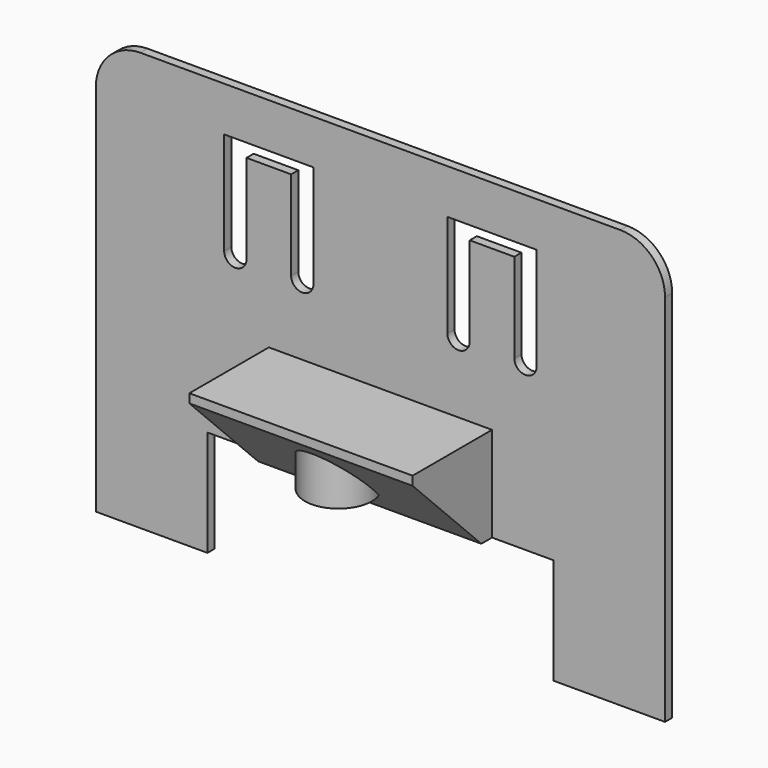
from build123d import *

# Parameters (mm, degrees)
PAD_DEPTH    = 0.8
PAD001_DEPTH = 10
SKETCH003_R  = 3
PAD002_DEPTH = 6
POCKET_DEPTH = 5


with BuildPart() as part:
    # Sketch → Pad (new body)
    with BuildSketch(Plane.XZ):
        with BuildLine():
            Line((-25.5, 14.5), (-25.5, 48))
            ThreePointArc((-21.5, 52), (-24.328427, 50.828427), (-25.5, 48))
            Line((-21.5, 52), (21.5, 52))
            ThreePointArc((25.5, 48), (24.328427, 50.828427), (21.5, 52))
            Line((25.5, 48), (25.5, 14.5))
            Line((25.5, 14.5), (15.5, 14.5))
            Line((15.5, 14.5), (15.5, 24))
            Line((15.5, 24), (-15.5, 24))
            Line((-15.5, 24), (-15.5, 14.5))
            Line((-15.5, 14.5), (-25.5, 14.5))
        make_face()
    extrude(amount=PAD_DEPTH)

    # Sketch001 → Pad001 (join, symmetric)
    with BuildSketch(Plane.YZ):
        Polygon((-2, 24), (-9.7, 31.7), (-9.7, 32.5), (0, 32.5), (0, 24), align=None)
    extrude(amount=PAD001_DEPTH, both=True)

    # Sketch003 (on Face12 of Pad001) → Pad002 (join)
    with BuildSketch(Plane(origin=(0, 0, 32.5), x_dir=(-1, 0, 0), z_dir=(0, 0, 1))):
        with Locations((0, 5.5)):
            Circle(SKETCH003_R)
    extrude(amount=-PAD002_DEPTH)

    # Sketch004 (on Face5 of Pad002) → Pocket (cut)
    with BuildSketch(Plane.XZ.offset(0.8)):
        with BuildLine():
            Line((-12, 38.8), (-12, 46.8))
            Line((-12, 46.8), (-8, 46.8))
            Line((-8, 46.8), (-8, 38.8))
            ThreePointArc((-8, 38.8), (-7, 37.8), (-6, 38.8))
            Line((-6, 38.8), (-6, 48))
            Line((-6, 48), (-14, 48))
            Line((-14, 48), (-14, 38.8))
            ThreePointArc((-14, 38.8), (-13, 37.8), (-12, 38.8))
        make_face()
        with BuildLine():
            Line((12, 38.8), (12, 46.8))
            Line((12, 46.8), (8, 46.8))
            Line((8, 46.8), (8, 38.8))
            ThreePointArc((6, 38.8), (7, 37.8), (8, 38.8))
            Line((6, 38.8), (6, 48))
            Line((6, 48), (14, 48))
            Line((14, 48), (14, 38.8))
            ThreePointArc((12, 38.8), (13, 37.8), (14, 38.8))
        make_face()
    extrude(amount=-POCKET_DEPTH, mode=Mode.SUBTRACT)


solid = part.part
